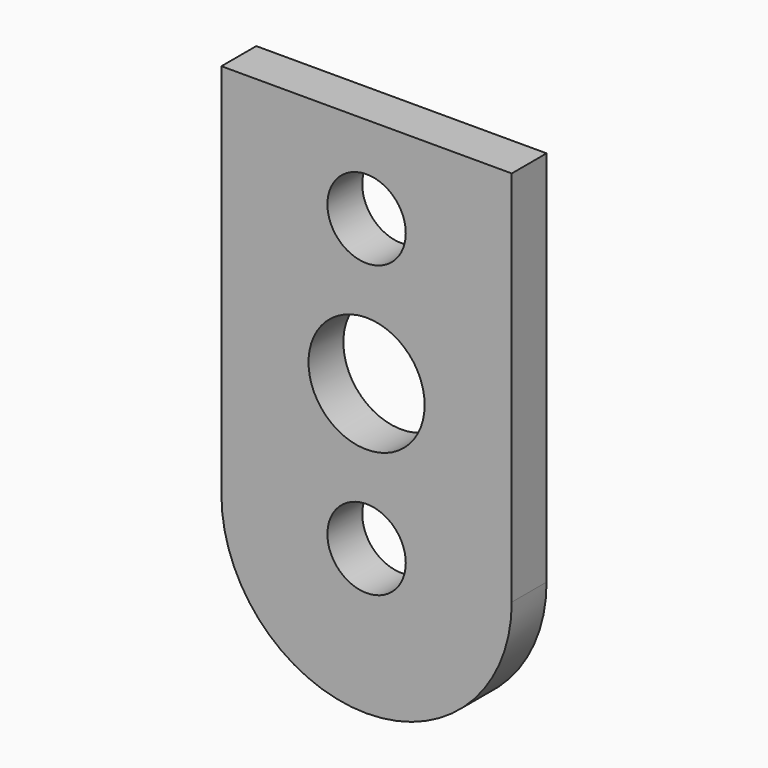
from build123d import *

# Parameters (mm, degrees)
F0_R     = 2.7
F0_R_2   = 4
F1_DEPTH = 3


with BuildPart() as f1:
    # F0 (on Front) → F1 (new body)
    with BuildSketch(Plane.XZ):
        with BuildLine():
            Line((10, -13), (10, 13))
            Line((10, 13), (-10, 13))
            Line((-10, 13), (-10, -13))
            ThreePointArc((-10, -13), (0, -23), (10, -13))
        make_face()
        with Locations((0, -13)):
            Circle(F0_R, mode=Mode.SUBTRACT)
        with Locations((0, -3)):
            Circle(F0_R_2, mode=Mode.SUBTRACT)
        with Locations((0, 7)):
            Circle(F0_R, mode=Mode.SUBTRACT)
    extrude(amount=F1_DEPTH)


solid = f1.part
